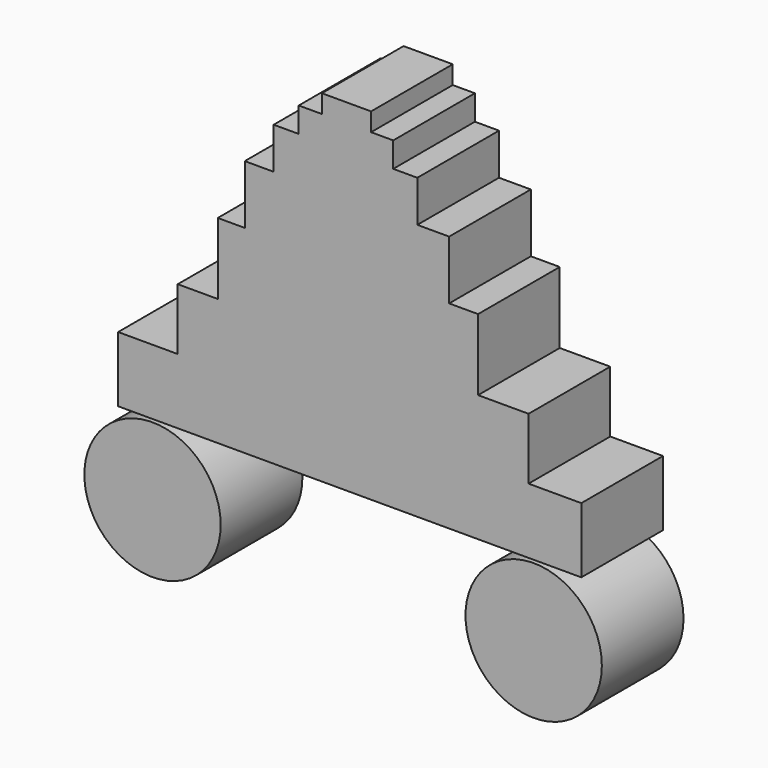
from build123d import *

# Parameters (mm, degrees)
F0_R     = 20.031774
F0_W     = 14.446942
F0_H     = 5.382202
F1_DEPTH = 30


with BuildPart() as f1:
    # F0 (on Front) → F1 (new body)
    with BuildSketch(Plane.XZ):
        with Locations((-55.996973, -52.491438)):
            Circle(F0_R)
        with Locations((55.996973, -52.491438)):
            Circle(F0_R)
        with Locations((0.991457, 66.144336)):
            Rectangle(F0_W, F0_H)
        Polygon((-28.893886, 26.627699), (-36.825541, 26.627699), (-36.825541, 5.665468), (39.658275, 5.665468), (39.658275, 26.627699), (31.16007, 26.627699), align=None)
        Polygon((-28.893886, 43.907374), (-28.893886, 26.627699), (31.16007, 26.627699), (31.16007, 43.907374), (21.812052, 43.907374), (-20.395683, 43.907374), align=None)
        Polygon((-20.395683, 56.088131), (-20.395683, 43.907374), (21.812052, 43.907374), (21.812052, 56.088131), (14.730218, 56.088131), (-13.030576, 56.088131), align=None)
        Polygon((-13.030576, 63.453235), (-13.030576, 56.088131), (14.730218, 56.088131), (14.730218, 63.453235), (8.214928, 63.453235), (-6.232014, 63.453235), align=None)
        Polygon((39.658275, 5.665468), (-36.825541, 5.665468), (-48.585817, 5.665468), (-48.585817, -12.403823), (54.496627, -12.403823), (54.496627, 5.665468), align=None)
        Polygon((54.496627, -12.403823), (-48.585817, -12.403823), (-66.103093, -12.403823), (-66.103093, -31.605452), (69.992684, -31.605452), (69.992684, -12.403823), align=None)
    extrude(amount=F1_DEPTH)


solid = f1.part
